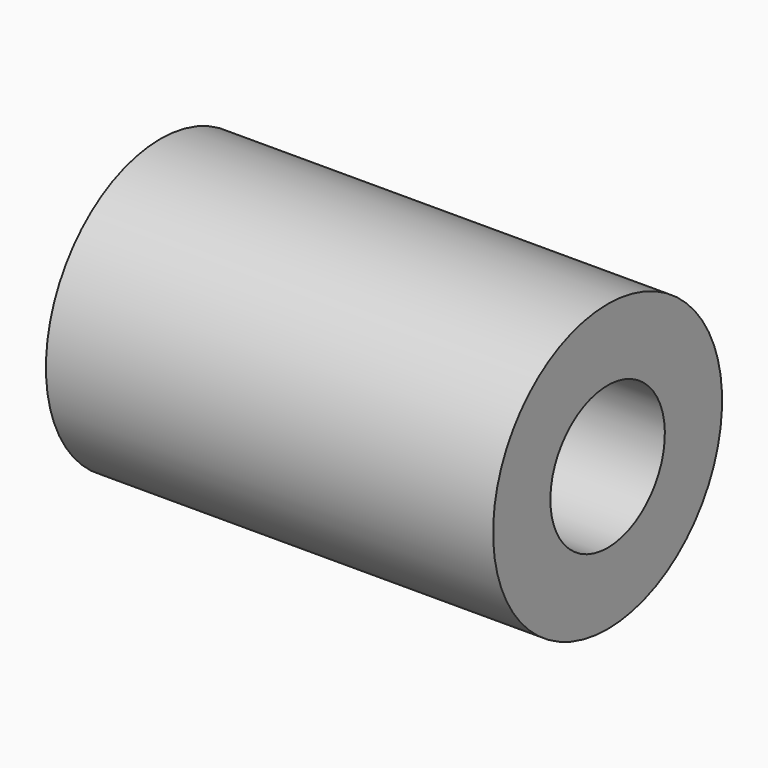
from build123d import *

# Parameters (mm, degrees)
LM8UU_CEN_X_Y_INT_R           = 4
LM8UU_CEN_X_Y_INT_DEPTH       = 27
LM8UU_CEN_X_Y_INT_PITCH_ANGLE = 90
LM8UU_CEN_X_Y_EXT_R           = 8
LM8UU_CEN_X_Y_EXT_DEPTH       = 25
LM8UU_CEN_X_Y_EXT_PITCH_ANGLE = 90


with BuildPart() as lm8uu_cen_x_y_int:
    # lm8uu_cen_x_y_int → lm8uu_cen_x_y_int (new body)
    with BuildSketch(Plane.XY):
        Circle(LM8UU_CEN_X_Y_INT_R)
    extrude(amount=LM8UU_CEN_X_Y_INT_DEPTH)


with BuildPart() as lm8uu_cen_x_y_int_1:
    # lm8uu_cen_x_y_int pitch: moved
    add(lm8uu_cen_x_y_int.part.rotate(Axis((0, 0, 0), (0, 1, 0)), LM8UU_CEN_X_Y_INT_PITCH_ANGLE))


with BuildPart() as lm8uu_cen_x_y_int_2:
    # lm8uu_cen_x_y_int placement: moved
    add(lm8uu_cen_x_y_int_1.part.moved(Location((-13.5, 0, 0))))


with BuildPart() as obj1:
    # lm8uu_cen_x_y_ext → lm8uu_cen_x_y_ext (new body)
    with BuildSketch(Plane.XY):
        Circle(LM8UU_CEN_X_Y_EXT_R)
    extrude(amount=LM8UU_CEN_X_Y_EXT_DEPTH)


with BuildPart() as obj1_1:
    # lm8uu_cen_x_y_ext pitch: moved
    add(obj1.part.rotate(Axis((0, 0, 0), (0, 1, 0)), LM8UU_CEN_X_Y_EXT_PITCH_ANGLE))


with BuildPart() as obj1_2:
    # lm8uu_cen_x_y_ext placement: moved
    add(obj1_1.part.moved(Location((-12.5, 0, 0))))

    # lm8uu_cen_x_y: cut lm8uu_cen_x_y_int
    add(lm8uu_cen_x_y_int_2.part, mode=Mode.SUBTRACT)


with BuildPart() as obj1_3:
    # lm8uu_cen_x_y placement: moved
    add(obj1_2.part.moved(Location((17.25, 32.5, 0))))


with BuildPart() as obj1_4:
    # Clone031 placement: moved
    add(obj1_3.part.moved(Location((-34.5, -65, 0))))


solid = obj1_4.part
